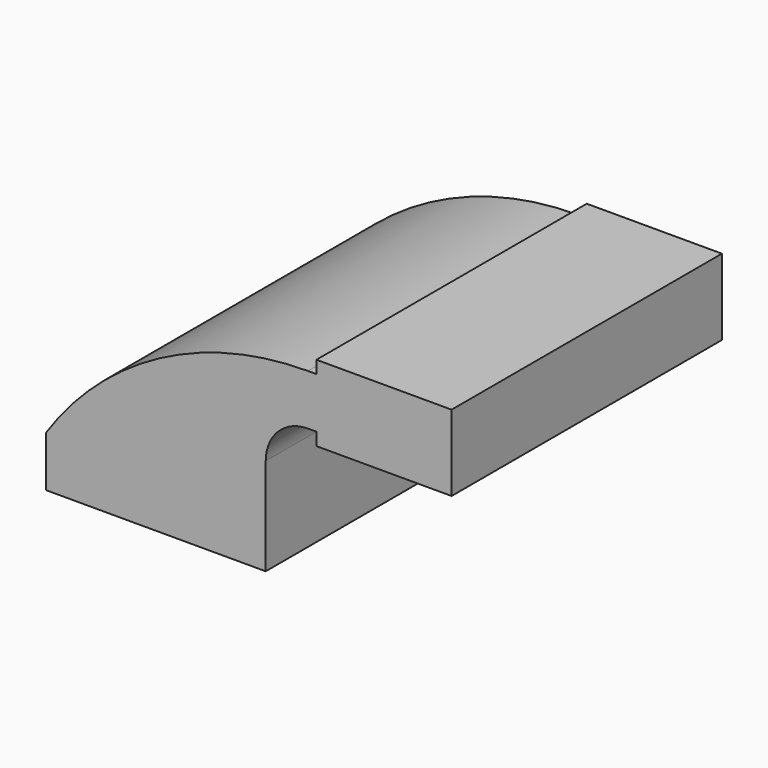
from build123d import *

# Parameters (mm, degrees)
F0_W     = 25.4
F0_H     = 19.05
F0_H_2   = 4.7498
F1_DEPTH = 127


with BuildPart() as f1:
    # F0 (on Front) → F1 (new body)
    with BuildSketch(Plane.XZ):
        Polygon((41.275, -7.9502), (41.275, 9.525), (22.225, 9.525), (-41.275, 9.525), (-41.275, -9.525), (41.275, -9.525), align=None)
        with BuildLine():
            Line((-41.275, 9.525), (22.225, 9.525))
            Line((22.225, 9.525), (22.225, 27.0002))
            ThreePointArc((22.225, 27.0002), (32.4542956671, 51.6959043329), (57.15, 61.9252))
            ThreePointArc((57.15, 61.9252), (1.3977319182, 48.0089590969), (-41.275, 9.525))
        make_face()
        with BuildLine():
            Line((22.225, 9.525), (41.275, 9.525))
            Line((41.275, 9.525), (41.275, 27.0002))
            ThreePointArc((41.275, 27.0002), (45.9246798487, 38.2255201513), (57.15, 42.8752))
            Line((57.15, 42.8752), (60.325, 42.8752))
            Line((60.325, 42.8752), (60.325, 61.9252))
            Line((60.325, 61.9252), (57.15, 61.9252))
            ThreePointArc((57.15, 61.9252), (32.4542956671, 51.6959043329), (22.225, 27.0002))
            Line((22.225, 27.0002), (22.225, 9.525))
        make_face()
        with Locations((73.025, 52.4002)):
            Rectangle(F0_W, F0_H)
        Polygon((85.725, 42.8752), (60.325, 42.8752), (60.325, 38.1), (111.125, 38.1), (111.125, 66.675), (85.725, 66.675), (85.725, 61.9252), align=None)
        with Locations((73.025, 64.3001)):
            Rectangle(F0_W, F0_H_2)
    extrude(amount=F1_DEPTH)


solid = f1.part
